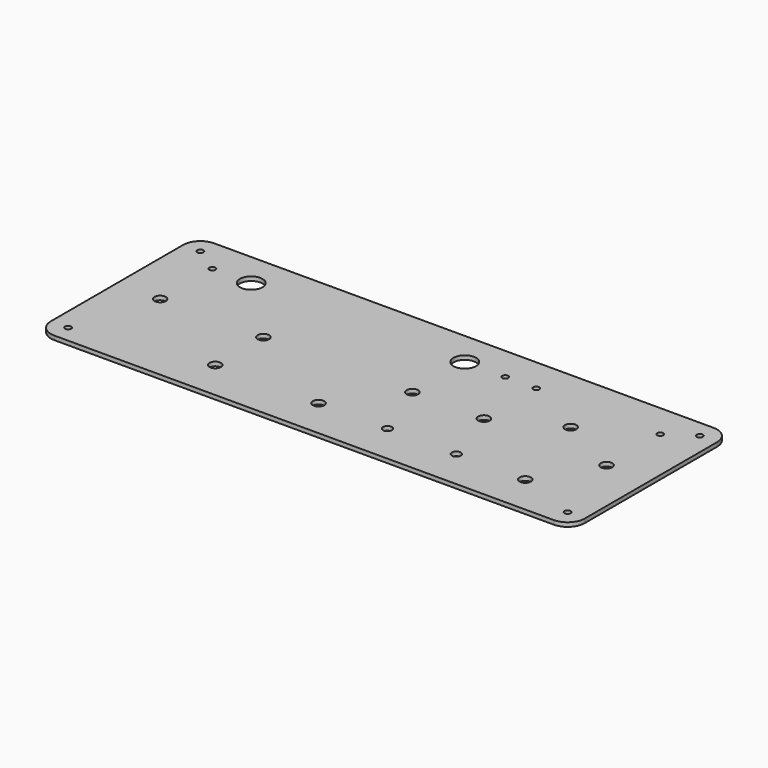
from build123d import *

# Parameters (mm, degrees)
F1_DEPTH = 2.9972
F2_D     = 4.4958
F3_D     = 16.66748
F4_D     = 8.4328
F5_D     = 6.5278


with BuildPart() as f1:
    # F0 (on Top) → F1 (new body)
    with BuildSketch(Plane.XY):
        with BuildLine():
            ThreePointArc((196.85, 60.96), (193.1302561211, 69.9402561211), (184.15, 73.66))
            Line((184.15, 73.66), (-184.15, 73.66))
            ThreePointArc((-184.15, 73.66), (-193.1302561211, 69.9402561211), (-196.85, 60.96))
            Line((-196.85, 60.96), (-196.85, -60.96))
            ThreePointArc((-196.85, -60.96), (-193.1302561211, -69.9402561211), (-184.15, -73.66))
            Line((-184.15, -73.66), (184.15, -73.66))
            ThreePointArc((184.15, -73.66), (193.1302561211, -69.9402561211), (196.85, -60.96))
            Line((196.85, -60.96), (196.85, 60.96))
        make_face()
    extrude(amount=F1_DEPTH)

    # F2 (through all)
    with Locations(Plane(origin=(0, 0, 0), x_dir=(1, 0, 0), z_dir=(0, 0, -1))):
        with Locations((165.1, -48.26), (73.66, -48.26), (50.8, -48.26), (-165.1, -48.26), (-184.15, -60.96), (-184.15, 60.96), (184.15, 60.96), (184.15, -60.96)):
            Hole(F2_D / 2)

    # F3 (through all)
    with Locations(Plane(origin=(0, 0, 0), x_dir=(1, 0, 0), z_dir=(0, 0, -1))):
        with Locations((20.955, -48.26), (-136.525, -48.26)):
            Hole(F3_D / 2)

    # F4 (through all)
    with Locations(Plane(origin=(0, 0, 0), x_dir=(1, 0, 0), z_dir=(0, 0, -1))):
        with Locations((165.1, 1.27), (73.66, 0), (20.955, 0), (-88.9, 0), (139.7, 44.45), (-88.9, 44.45), (-165.1, 0), (119.38, -22.86), (-12.7, 44.45)):
            Hole(F4_D / 2)

    # F5 (through all)
    with Locations(Plane(origin=(0, 0, 0), x_dir=(1, 0, 0), z_dir=(0, 0, -1))):
        with Locations((38.1, 44.45), (88.9, 44.45)):
            Hole(F5_D / 2)


solid = f1.part
